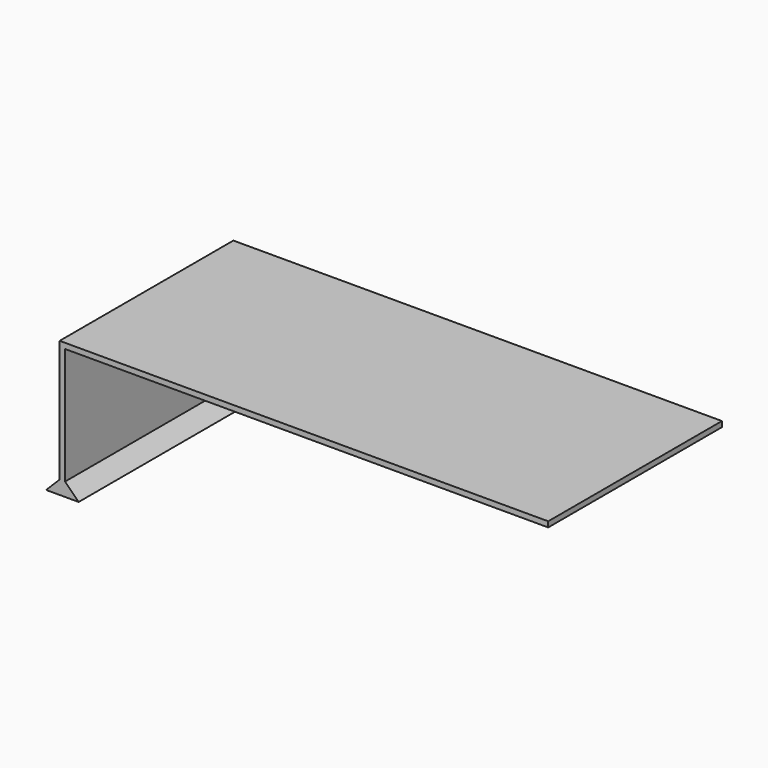
from build123d import *

# Parameters (mm, degrees)
F1_DEPTH = 40


with BuildPart() as f1:
    # F0 (on Front) → F1 (new body, symmetric)
    with BuildSketch(Plane.XZ):
        Polygon((-41.107197, 0), (-39.107197, 0), (-39.107197, 5), (-39.107197, 48), (138.892803, 48), (138.892803, 50), (-41.107197, 50), (-41.107197, 5), align=None)
        Polygon((-39.107197, 5), (-39.107197, 0), (-34.107197, 0), align=None)
        Polygon((-46.107197, 0), (-41.107197, 0), (-41.107197, 5), align=None)
    extrude(amount=F1_DEPTH, both=True)


solid = f1.part
